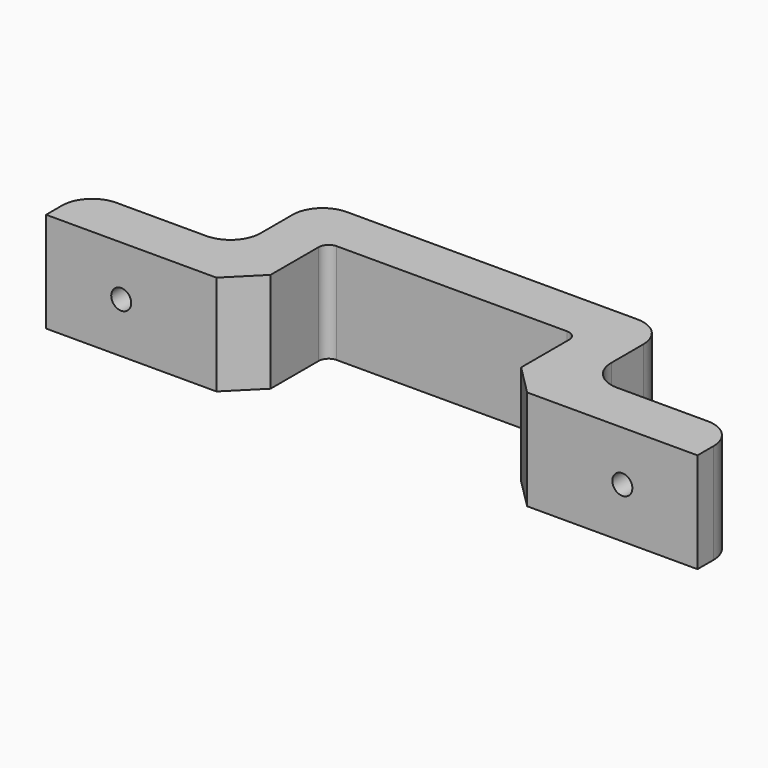
from build123d import *

# Parameters (mm, degrees)
PAD_DEPTH       = 10
FILLET_R        = 3
FILLET001_R     = 1
FILLET002_R     = 1
CHAMFER_SIZE    = 3
CHAMFER001_SIZE = 3
FILLET003_R     = 3
FILLET004_R     = 3
FILLET005_R     = 3
FILLET006_R     = 3
FILLET007_R     = 3
SKETCH001_R     = 1
POCKET_DEPTH    = 5
SKETCH002_R     = 1
POCKET001_DEPTH = 5


with BuildPart() as part:
    # Sketch → Pad (new body)
    with BuildSketch(Plane.XY):
        Polygon((0, 0), (-20, 0), (-20, 5), (-5, 5), (-5, 15), (30, 15), (30, 5), (45, 5), (45, 0), (25, 0), (25, 10), (0, 10), align=None)
    extrude(amount=PAD_DEPTH)

    # Fillet
    fillet_edges = [part.edges().sort_by_distance(p)[0] for p in [
        (-5, 15, 5),
    ]]
    fillet(fillet_edges, radius=FILLET_R)

    # Fillet001
    fillet001_edges = [part.edges().sort_by_distance(p)[0] for p in [
        (0, 10, 5),
    ]]
    fillet(fillet001_edges, radius=FILLET001_R)

    # Fillet002
    fillet002_edges = [part.edges().sort_by_distance(p)[0] for p in [
        (25, 10, 5),
    ]]
    fillet(fillet002_edges, radius=FILLET002_R)

    # Chamfer
    chamfer_edges = [part.edges().sort_by_distance(p)[0] for p in [
        (25, 0, 5),
    ]]
    chamfer(chamfer_edges, length=CHAMFER_SIZE)

    # Chamfer001
    chamfer001_edges = [part.edges().sort_by_distance(p)[0] for p in [
        (0, 0, 5),
    ]]
    chamfer(chamfer001_edges, length=CHAMFER001_SIZE)

    # Fillet003
    fillet003_edges = [part.edges().sort_by_distance(p)[0] for p in [
        (30, 15, 5),
    ]]
    fillet(fillet003_edges, radius=FILLET003_R)

    # Fillet004
    fillet004_edges = [part.edges().sort_by_distance(p)[0] for p in [
        (45, 5, 5),
    ]]
    fillet(fillet004_edges, radius=FILLET004_R)

    # Fillet005
    fillet005_edges = [part.edges().sort_by_distance(p)[0] for p in [
        (-20, 5, 5),
    ]]
    fillet(fillet005_edges, radius=FILLET005_R)

    # Fillet006
    fillet006_edges = [part.edges().sort_by_distance(p)[0] for p in [
        (30, 5, 5),
    ]]
    fillet(fillet006_edges, radius=FILLET006_R)

    # Fillet007
    fillet007_edges = [part.edges().sort_by_distance(p)[0] for p in [
        (-5, 5, 5),
    ]]
    fillet(fillet007_edges, radius=FILLET007_R)

    # Sketch001 → Pocket (cut)
    with BuildSketch(Plane(origin=(0, 5, 0), x_dir=(-1, 0, 0), z_dir=(0, 1, 0))):
        with Locations((-37.5, 5)):
            Circle(SKETCH001_R)
    extrude(amount=-POCKET_DEPTH, mode=Mode.SUBTRACT)

    # Sketch002 → Pocket001 (cut)
    with BuildSketch(Plane(origin=(0, 5, 0), x_dir=(-1, 0, 0), z_dir=(0, 1, 0))):
        with Locations((12.5, 5)):
            Circle(SKETCH002_R)
    extrude(amount=-POCKET001_DEPTH, mode=Mode.SUBTRACT)


solid = part.part
